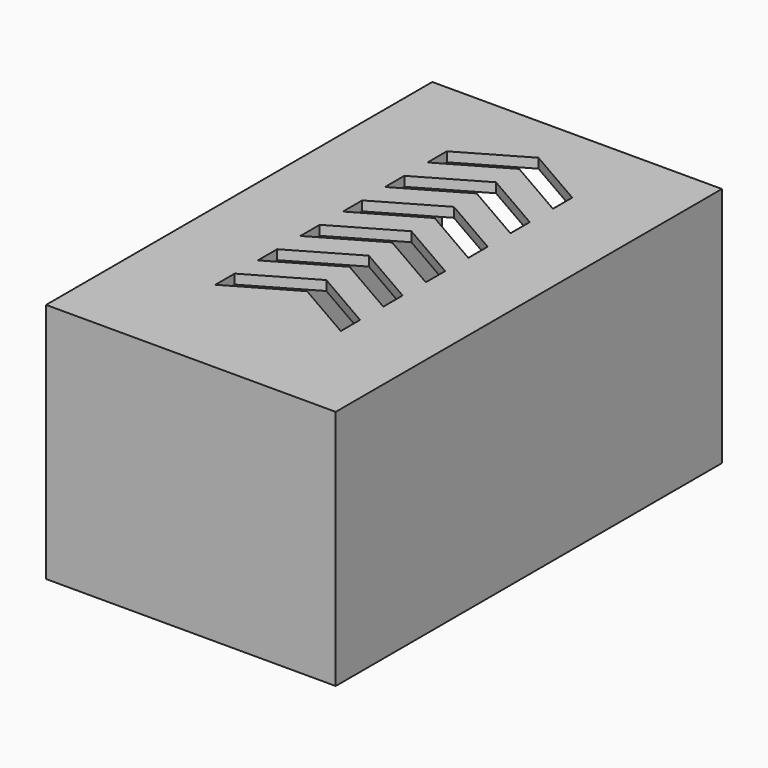
from build123d import *

# Parameters (mm, degrees)
F1_DEPTH = 50
F2_T     = -2
F4_DEPTH = 10
F6_DEPTH = 5
F7_W     = 56
F7_H     = 2
F8_DEPTH = 25


with BuildPart() as f1:
    # F0 (on Top) → F1 (new body)
    with BuildSketch(Plane.XY):
        Polygon((30, 0), (0, 0), (-30, 0), (-30, -100), (30, -100), align=None)
    extrude(amount=-F1_DEPTH)

    # F2
    f2_openings = [f1.faces().sort_by_distance(p)[0] for p in [
        (0, -50, -50),
    ]]
    offset(amount=F2_T, openings=f2_openings)

    # F3 (on face) → F4 (cut)
    with BuildSketch(Plane.XY):
        Polygon((12.990381, -17.5), (0, -10), (-12.990381, -17.5), (-12.990381, -22.5), (0, -15), (12.990381, -22.5), align=None)
        Polygon((12.990381, -28.5), (0, -21), (-12.990381, -28.5), (-12.990381, -33.5), (0, -26), (12.990381, -33.5), align=None)
        Polygon((13.050762, -39.48), (0.060381, -31.98), (-12.93, -39.48), (-12.93, -44.48), (0.060381, -36.98), (13.050762, -44.48), align=None)
        Polygon((13.020381, -50.45), (0.060381, -42.967541), (0.03, -42.95), (-12.960381, -50.45), (-12.960381, -55.45), (0.03, -47.95), (13.020381, -55.45), align=None)
        Polygon((-12.990762, -66.42), (-0.000381, -58.92), (12.99, -66.42), (12.99, -61.42), (-0.000381, -53.92), (-12.990762, -61.42), align=None)
        Polygon((-13.021143, -77.39), (-0.030762, -69.89), (12.959619, -77.39), (12.959619, -72.39), (-0.030762, -64.89), (-13.021143, -72.39), align=None)
    extrude(amount=-F4_DEPTH, mode=Mode.SUBTRACT)

    # F5 (on face) → F6 (cut)
    with BuildSketch(Plane(origin=(0, 0, 0), x_dir=(-1, 0, 0), z_dir=(0, 1, 0))):
        Polygon((28, -2), (0, -2), (-28, -2), (-28, -25), (-28, -48), (0, -48), (28, -48), (28, -25), align=None)
    extrude(amount=-F6_DEPTH, mode=Mode.SUBTRACT)

    # F7 (on face) → F8 (cut)
    with BuildSketch(Plane(origin=(0, 0, 0), x_dir=(-1, 0, 0), z_dir=(0, 1, 0))):
        with Locations((0, -49)):
            Rectangle(F7_W, F7_H)
    extrude(amount=-F8_DEPTH, mode=Mode.SUBTRACT)


solid = f1.part
